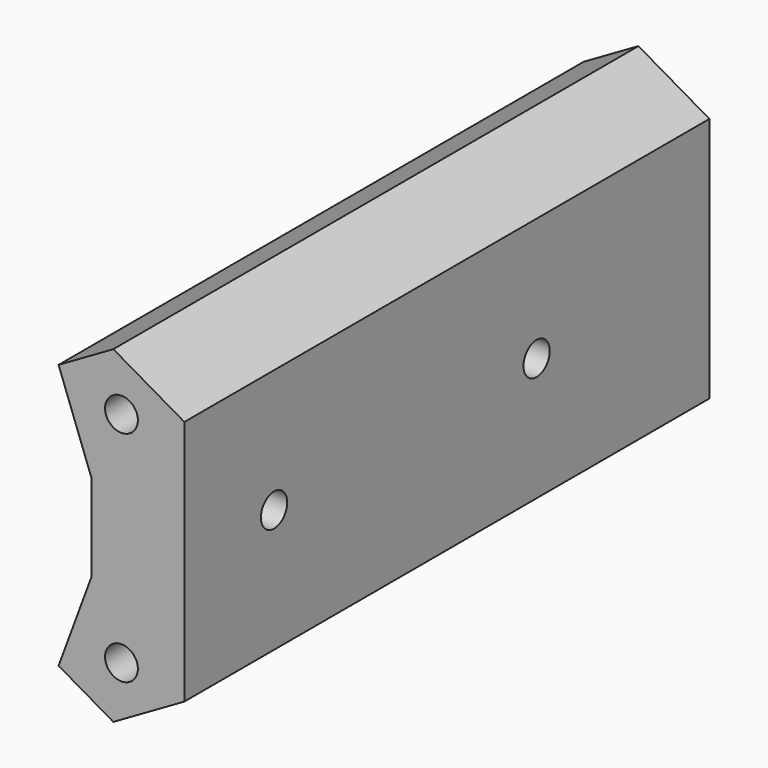
from build123d import *

# Parameters (mm, degrees)
SKETCH135_R  = 1.5
PAD107_DEPTH = 50
SKETCH138_R  = 1.5
PAD111_DEPTH = 50
SKETCH098_R  = 1.5
PAD075_DEPTH = 60


with BuildPart() as screwcutout:
    # Sketch135 → Pad107 (new body, symmetric)
    with BuildSketch(Plane(origin=(0, 34, 0), x_dir=(0, 1, 0), z_dir=(1, 0, 0))):
        with Locations((3.25, 0)):
            Circle(SKETCH135_R)
    extrude(amount=PAD107_DEPTH, both=True)


with BuildPart() as sidecutouts:
    # Sketch138 → Pad111 (new body, symmetric)
    with BuildSketch(Plane(origin=(0, 70, 0), x_dir=(0, 1, 0), z_dir=(1, 0, 0))):
        with Locations((-2.75, 0)):
            Circle(SKETCH138_R)
    extrude(amount=PAD111_DEPTH, both=True)

    # Fusion004020008: union ScrewCutout
    add(screwcutout.part)


with BuildPart() as sidewall:
    # Sketch098 → Pad075 (new body)
    with BuildSketch(Plane.XZ.offset(-27)):
        Polygon((-31.5, -4), (-31.5, 4), (-34.5, 12.107695), (-29.490381, 15), (-23, 11.252777), (-23, -11.252777), (-29.490381, -15), (-34.5, -12.107695), align=None)
        with Locations((-28.75, 10)):
            Circle(SKETCH098_R, mode=Mode.SUBTRACT)
        with Locations((-28.75, -10)):
            Circle(SKETCH098_R, mode=Mode.SUBTRACT)
    extrude(amount=-PAD075_DEPTH)

    # Cut007019013: cut sideCutouts
    add(sidecutouts.part, mode=Mode.SUBTRACT)


solid = sidewall.part
